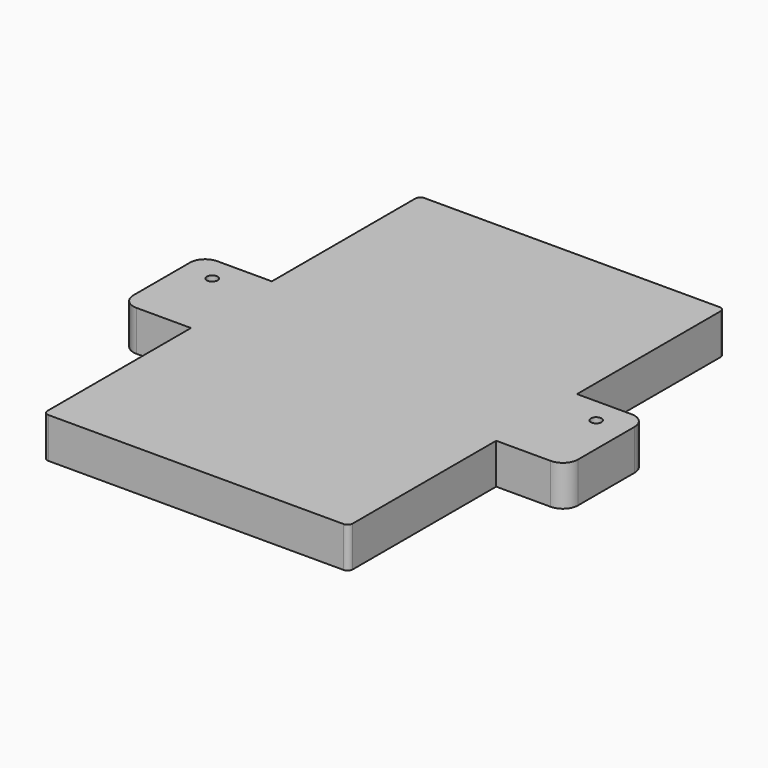
from build123d import *

# Parameters (mm, degrees)
SKETCH_W     = 60.4
SKETCH_H     = 93
PAD_DEPTH    = 8
SKETCH001_W  = 88
SKETCH001_H  = 20
PAD001_DEPTH = 8
SKETCH002_R  = 1.05
POCKET_DEPTH = 264.570679
FILLET_R     = 3
FILLET001_R  = 1


with BuildPart() as part:
    # Sketch → Pad (new body)
    with BuildSketch(Plane.XY):
        Rectangle(SKETCH_W, SKETCH_H)
    extrude(amount=PAD_DEPTH)

    # Sketch001 → Pad001 (join)
    with BuildSketch(Plane.XY):
        Rectangle(SKETCH001_W, SKETCH001_H)
    extrude(amount=PAD001_DEPTH)

    # Sketch002 (on Face10 of Pad001) → Pocket (cut, through all)
    with BuildSketch(Plane.XY.offset(8)):
        with Locations((-38, 5)):
            Circle(SKETCH002_R)
    pocket = extrude(amount=-POCKET_DEPTH, mode=Mode.SUBTRACT)

    # Fillet
    fillet_edges = [part.edges().sort_by_distance(p)[0] for p in [
        (-44, -10, 4),
        (44, -10, 4),
        (44, 10, 4),
        (-44, 10, 4),
    ]]
    fillet(fillet_edges, radius=FILLET_R)

    # Mirrored: Pocket across Sketch002 V_Axis
    add(pocket.mirror(Plane(origin=(0, 0, 8), x_dir=(0, 0, 1), z_dir=(1, 0, 0))), mode=Mode.SUBTRACT)

    # Fillet001
    fillet001_edges = [part.edges().sort_by_distance(p)[0] for p in [
        (-30.2, -46.5, 4),
        (30.2, -46.5, 4),
        (30.2, 46.5, 4),
        (-30.2, 46.5, 4),
    ]]
    fillet(fillet001_edges, radius=FILLET001_R)


solid = part.part
